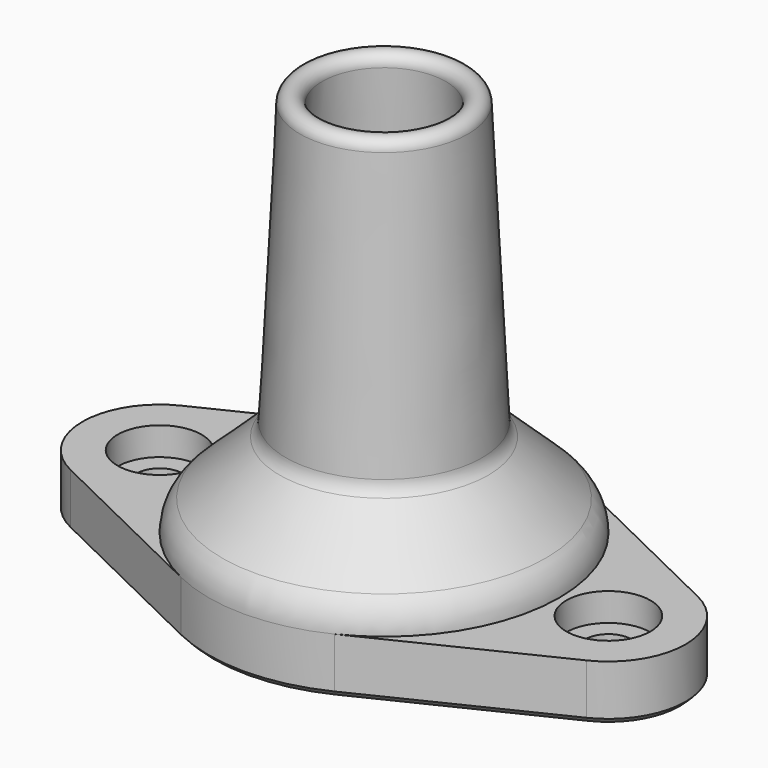
from build123d import *

# Parameters (mm, degrees)
SKETCH020_R     = 10.7
SKETCH020_R_2   = 1.65
PAD001_DEPTH    = 4
SKETCH019_R     = 3
POCKET001_DEPTH = 2
CHAMFER001_SIZE = 0.4


with BuildPart() as part:
    # Sketch017 (on XZ_Plane004 of Origin010) → Revolution001 (revolve)
    with BuildSketch(Plane.XZ):
        with BuildLine():
            Line((7, 11), (6, 31))
            ThreePointArc((6, 31), (5.161048, 31.759052), (4.401996, 30.9201))
            Line((4.401996, 30.9201), (5.401996, 10.9201))
            ThreePointArc((5.401996, 10.9201), (5.654041, 9.857767), (6.269565, 8.955986))
            Line((10.351475, 4.845571), (6.269565, 8.955986))
            ThreePointArc((10.7, 4), (10.609453, 4.457291), (10.351475, 4.845571))
            Line((10.7, 4), (12.5, 4))
            ThreePointArc((12.5, 4), (12.253216, 5.191554), (11.553466, 6.187071))
            Line((11.553466, 6.187071), (7.439969, 10.04928))
            ThreePointArc((7, 11), (7.127708, 10.481937), (7.439969, 10.04928))
        make_face()
    revolve(axis=Axis((0, 0, 0), (0, 0, 1)))

    # Sketch020 (on Face1 of Revolution001) → Pad001 (new body)
    with BuildSketch(Plane(origin=(0, 0, 4), x_dir=(1, 0, 0), z_dir=(0, 0, -1))):
        with BuildLine():
            ThreePointArc((5.46875, 11.24023), (0, 12.5), (-5.46875, 11.24023))
            Line((-5.46875, 11.24023), (-18.40625, 4.945701))
            ThreePointArc((-18.40625, 4.945701), (-21.5, 0), (-18.40625, -4.945701))
            Line((-18.40625, -4.945701), (-5.46875, -11.24023))
            ThreePointArc((-5.46875, -11.24023), (0, -12.5), (5.46875, -11.24023))
            Line((5.46875, -11.24023), (18.40625, -4.945701))
            ThreePointArc((18.40625, -4.945701), (21.5, 0), (18.40625, 4.945701))
            Line((5.46875, 11.24023), (18.40625, 4.945701))
        make_face()
        Circle(SKETCH020_R, mode=Mode.SUBTRACT)
        with Locations((-16, 0)):
            Circle(SKETCH020_R_2, mode=Mode.SUBTRACT)
        with Locations((16, 0)):
            Circle(SKETCH020_R_2, mode=Mode.SUBTRACT)
    extrude(amount=PAD001_DEPTH)

    # Sketch019 (on Face3 of Pad001) → Pocket001 (cut)
    with BuildSketch(Plane.XY.offset(4)):
        with Locations((-16, 0)):
            Circle(SKETCH019_R)
        with Locations((16, 0)):
            Circle(SKETCH019_R)
    extrude(amount=-POCKET001_DEPTH, mode=Mode.SUBTRACT)

    # Chamfer001
    chamfer001_edges = [part.edges().sort_by_distance(p)[0] for p in [
        (-10.7, 0, 0),
        (-17.65, 0, 0),
        (14.35, 0, 0),
        (-11.9375, 8.092966, 0),
    ]]
    chamfer(chamfer001_edges, length=CHAMFER001_SIZE)


with BuildPart() as part_1:
    # Body004 placement: moved
    add(part.part.moved(Location((0, 60, 0))))


solid = part_1.part
